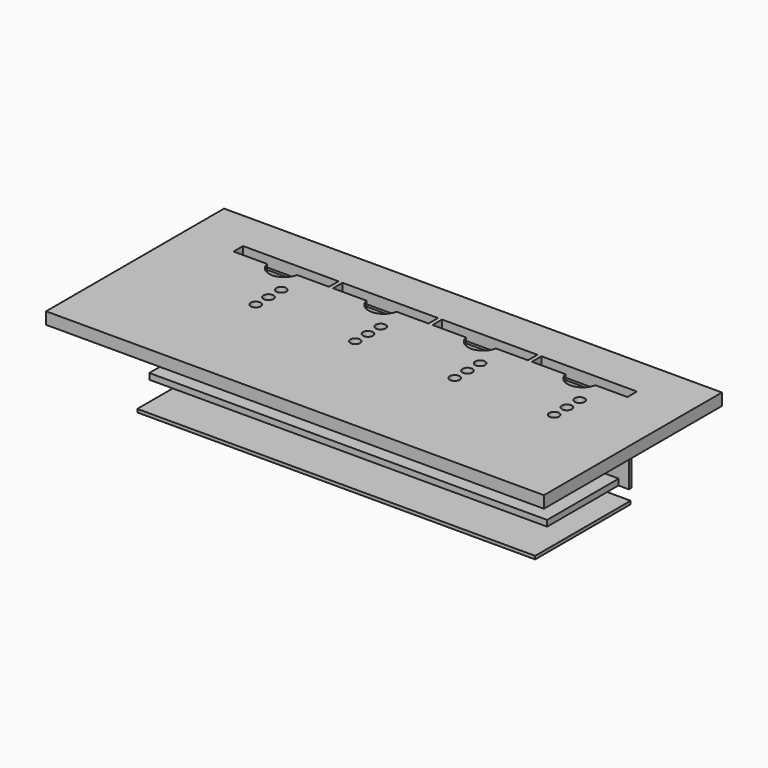
from build123d import *

# Parameters (mm, degrees)
F0_W          = 200
F0_H          = 60
F1_DEPTH      = 1.6
F3_START      = 5
F2_W          = 45
F2_H          = 1.6
F3_DEPTH      = 38
F4_W          = 45
F4_H          = 3
F5_DEPTH      = 100
F5_DEPTH_BACK = 100
F4_W_2        = 80
F6_W          = 250.26460653
F6_H          = 111.8382608923
F6_R          = 2.5
F7_DEPTH      = 6


with BuildPart() as f1:
    # F0 (on Top) → F1 (new body)
    with BuildSketch(Plane.XY):
        Rectangle(F0_W, F0_H)
    extrude(amount=F1_DEPTH)


with BuildPart() as f3:
    # F2 (on Top) → F3 (new body)
    with BuildSketch(Plane.XY.offset(F3_START)):
        with Locations((-75, 32.8)):
            Rectangle(F2_W, F2_H)
    extrude(amount=F3_DEPTH)


with BuildPart() as f3b:
    # F2 (on Top) → F3, piece 2 (new body)
    with BuildSketch(Plane.XY.offset(F3_START)):
        with Locations((-25, 32.8)):
            Rectangle(F2_W, F2_H)
    extrude(amount=F3_DEPTH)


with BuildPart() as f3c:
    # F2 (on Top) → F3, piece 3 (new body)
    with BuildSketch(Plane.XY.offset(F3_START)):
        with Locations((25, 32.8)):
            Rectangle(F2_W, F2_H)
    extrude(amount=F3_DEPTH)


with BuildPart() as f3d:
    # F2 (on Top) → F3, piece 4 (new body)
    with BuildSketch(Plane.XY.offset(F3_START)):
        with Locations((75, 32.8)):
            Rectangle(F2_W, F2_H)
    extrude(amount=F3_DEPTH)


with BuildPart() as f5:
    # F4 (on Right) → F5 (new body, two sides)
    with BuildSketch(Plane.YZ) as f5_sk:
        with Locations((0, 12.9431548645)):
            Rectangle(F4_W, F4_H)
    extrude(amount=F5_DEPTH)
    extrude(f5_sk.sketch, amount=-F5_DEPTH_BACK)


with BuildPart() as f5b:
    # F4 (on Right) → F5, piece 2 (new body, two sides)
    with BuildSketch(Plane.YZ) as f5_2_sk:
        with Locations((0, 39.642252028)):
            Rectangle(F4_W_2, F4_H)
    extrude(amount=F5_DEPTH)
    extrude(f5_2_sk.sketch, amount=-F5_DEPTH_BACK)


with BuildPart() as f7:
    # F6 (on face) → F7 (new body)
    with BuildSketch(Plane.XY.offset(41.142252028)):
        Rectangle(F6_W, F6_H)
        with Locations((-64.4584000111, 0)):
            Circle(F6_R, mode=Mode.SUBTRACT)
        with Locations((-64.4584000111, 8)):
            Circle(F6_R, mode=Mode.SUBTRACT)
        with Locations((-64.4584000111, 16)):
            Circle(F6_R, mode=Mode.SUBTRACT)
        with Locations((-14.4584000111, 0)):
            Circle(F6_R, mode=Mode.SUBTRACT)
        with Locations((-14.4584000111, 8)):
            Circle(F6_R, mode=Mode.SUBTRACT)
        with Locations((-14.4584000111, 16)):
            Circle(F6_R, mode=Mode.SUBTRACT)
        with BuildLine():
            Line((-99.413959682, 35.7116325498), (-51.413959682, 35.7116325498))
            Line((-51.413959682, 35.7116325498), (-51.413959682, 29.7116325498))
            Line((-51.413959682, 29.7116325498), (-67.4987107515, 29.7116325498))
            ThreePointArc((-67.4987107515, 29.7116325498), (-75, 23.4385324077), (-82.5012892485, 29.7116325498))
            Line((-82.5012892485, 29.7116325498), (-99.413959682, 29.7116325498))
            Line((-99.413959682, 29.7116325498), (-99.413959682, 35.7116325498))
        make_face(mode=Mode.SUBTRACT)
        with BuildLine():
            Line((-1.413959682, 35.7116325498), (-1.413959682, 29.7116325498))
            Line((-1.413959682, 29.7116325498), (-17.4987107515, 29.7116325498))
            ThreePointArc((-17.4987107515, 29.7116325498), (-25, 23.4385324077), (-32.5012892485, 29.7116325498))
            Line((-32.5012892485, 29.7116325498), (-49.413959682, 29.7116325498))
            Line((-49.413959682, 29.7116325498), (-49.413959682, 35.7116325498))
            Line((-49.413959682, 35.7116325498), (-1.413959682, 35.7116325498))
        make_face(mode=Mode.SUBTRACT)
        with Locations((35.5415999889, 0)):
            Circle(F6_R, mode=Mode.SUBTRACT)
        with Locations((35.5415999889, 8)):
            Circle(F6_R, mode=Mode.SUBTRACT)
        with Locations((35.5415999889, 16)):
            Circle(F6_R, mode=Mode.SUBTRACT)
        with Locations((85.5415999889, 0)):
            Circle(F6_R, mode=Mode.SUBTRACT)
        with Locations((85.5415999889, 8)):
            Circle(F6_R, mode=Mode.SUBTRACT)
        with Locations((85.5415999889, 16)):
            Circle(F6_R, mode=Mode.SUBTRACT)
        with BuildLine():
            Line((48.586040318, 35.7116325498), (48.586040318, 29.7116325498))
            Line((48.586040318, 29.7116325498), (32.5012892485, 29.7116325498))
            ThreePointArc((32.5012892485, 29.7116325498), (25, 23.4385324077), (17.4987107515, 29.7116325498))
            Line((17.4987107515, 29.7116325498), (0.586040318, 29.7116325498))
            Line((0.586040318, 29.7116325498), (0.586040318, 35.7116325498))
            Line((0.586040318, 35.7116325498), (48.586040318, 35.7116325498))
        make_face(mode=Mode.SUBTRACT)
        with BuildLine():
            Line((98.586040318, 35.7116325498), (98.586040318, 29.7116325498))
            Line((98.586040318, 29.7116325498), (82.5012892485, 29.7116325498))
            ThreePointArc((82.5012892485, 29.7116325498), (75, 23.4385324077), (67.4987107515, 29.7116325498))
            Line((67.4987107515, 29.7116325498), (50.586040318, 29.7116325498))
            Line((50.586040318, 29.7116325498), (50.586040318, 35.7116325498))
            Line((50.586040318, 35.7116325498), (98.586040318, 35.7116325498))
        make_face(mode=Mode.SUBTRACT)
    extrude(amount=F7_DEPTH)


solid = Compound([f1.part, f3.part, f3b.part, f3c.part, f3d.part, f5.part, f5b.part, f7.part])
